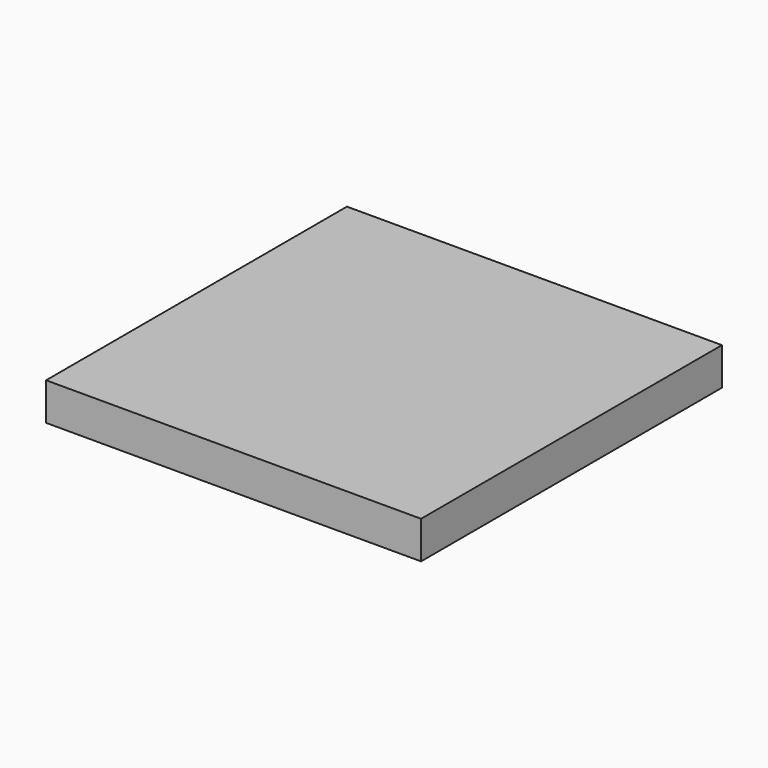
from build123d import *

# Parameters (mm, degrees)
SKETCH_W  = 19.987688
SKETCH_H  = 20.045519
PAD_DEPTH = 2


with BuildPart() as part:
    # Sketch → Pad (new body)
    with BuildSketch(Plane.XY):
        with Locations((9.993844, 10.022759)):
            Rectangle(SKETCH_W, SKETCH_H)
    extrude(amount=PAD_DEPTH)


solid = part.part
